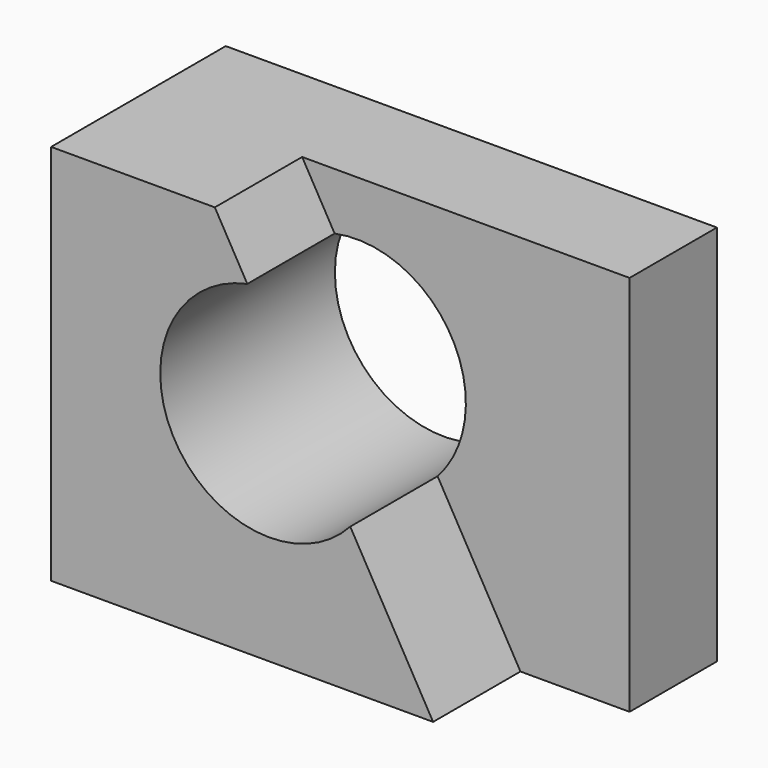
from build123d import *

# Parameters (mm, degrees)
F0_W     = 57.15
F0_H     = 44.45
F1_DEPTH = 25.4
F3_DEPTH = 12.7
F4_R     = 12.7
F5_DEPTH = 25.4


with BuildPart() as f1:
    # F0 (on Front) → F1 (new body)
    with BuildSketch(Plane.XZ):
        with Locations((28.575, 22.225)):
            Rectangle(F0_W, F0_H)
    extrude(amount=F1_DEPTH)

    # F2 (on face) → F3 (cut)
    with BuildSketch(Plane.XZ.offset(25.4)):
        Polygon((57.15, 44.45), (19.05, 44.45), (44.45, 0), (57.15, 0), align=None)
    extrude(amount=-F3_DEPTH, mode=Mode.SUBTRACT)

    # F4 (on face) → F5 (cut)
    with BuildSketch(Plane(origin=(0, 0, 0), x_dir=(-1, 0, 0), z_dir=(0, 1, 0))):
        with Locations((-25.4, 25.4)):
            Circle(F4_R)
    extrude(amount=-F5_DEPTH, mode=Mode.SUBTRACT)


solid = f1.part
